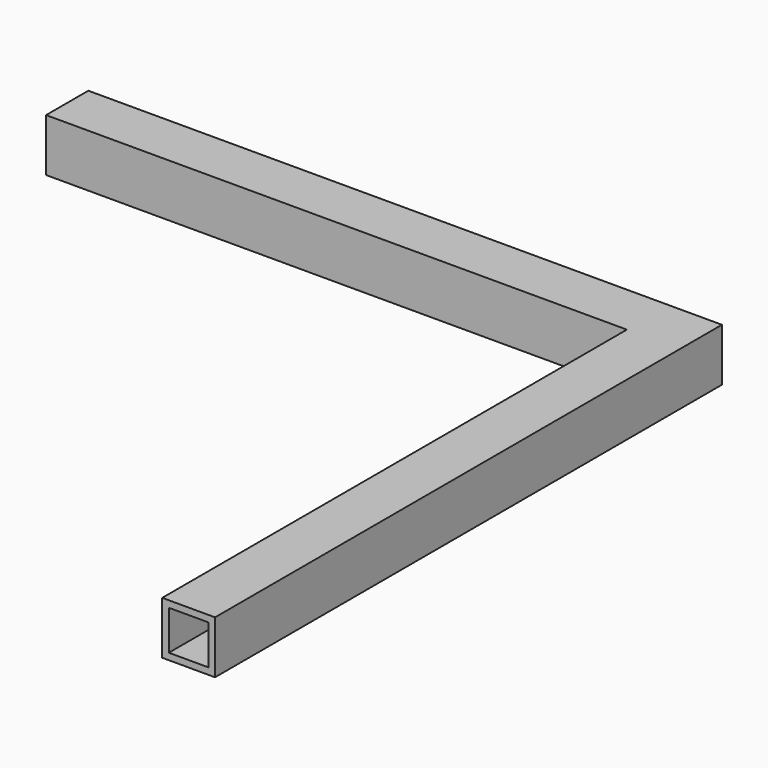
from build123d import *

# Parameters (mm, degrees)
F1_W   = 50.8
F1_H   = 50.8
F1_W_2 = 38.1
F1_H_2 = 38.1


with BuildPart() as f2:
    # F2: sweep along a path in F0
    with BuildLine(Plane.XY) as f2_path:
        Line((0, 0), (0, 584.2))
        Line((0, 584.2), (-584.2, 584.2))
    # F1 (on Front) → F2 (sweep)
    with BuildSketch(Plane.XZ):
        Rectangle(F1_W, F1_H)
        Rectangle(F1_W_2, F1_H_2, mode=Mode.SUBTRACT)
    sweep(path=f2_path.line, transition=Transition.RIGHT)


solid = f2.part
